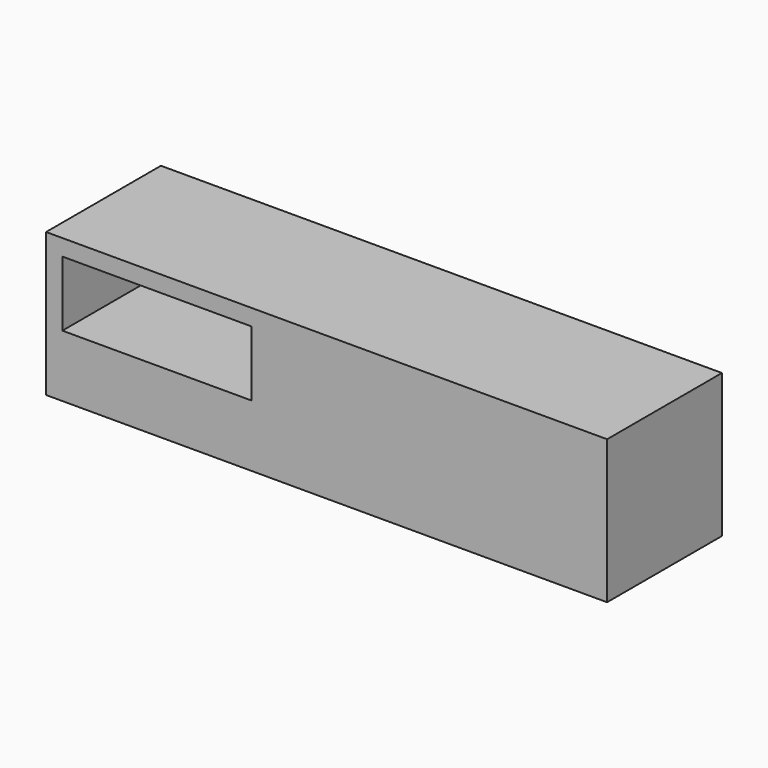
from build123d import *

# Parameters (mm, degrees)
F0_W     = 172
F0_H     = 44
F0_W_2   = 58
F0_H_2   = 20
F1_DEPTH = 22


with BuildPart() as f1:
    # F0 (on Front) → F1 (new body, symmetric)
    with BuildSketch(Plane.XZ):
        Rectangle(F0_W, F0_H)
        with Locations((-52, 7)):
            Rectangle(F0_W_2, F0_H_2, mode=Mode.SUBTRACT)
    extrude(amount=F1_DEPTH, both=True)


solid = f1.part
